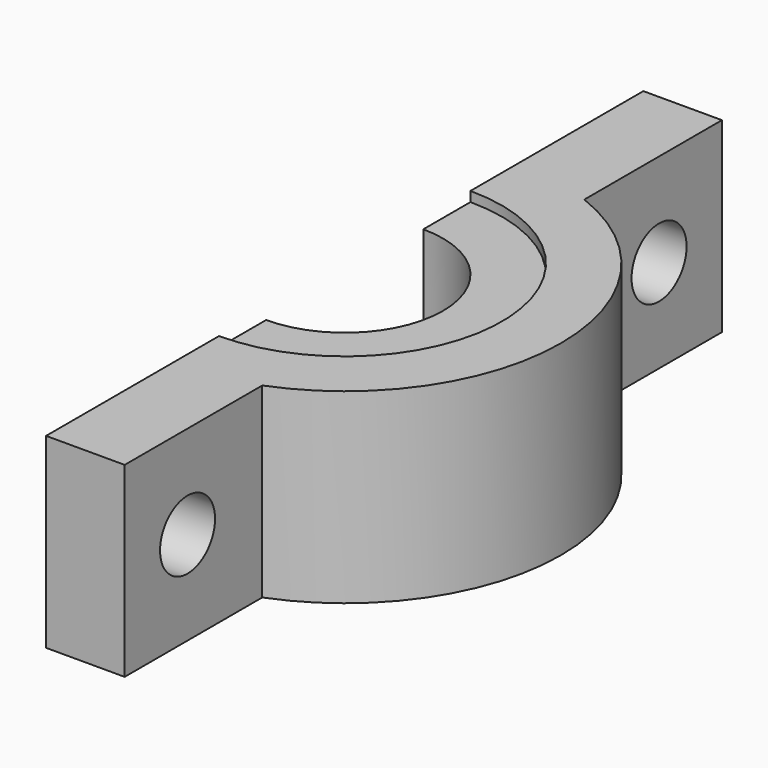
from build123d import *

# Parameters (mm, degrees)
F0_R      = 11
F1_DEPTH  = 9.5
F2_R      = 8
F3_DEPTH  = 0.5
F4_R      = 5
F5_DEPTH  = 25
F6_R      = 5
F6_R_2    = 2.5
F7_DEPTH  = 1
F8_R      = 5
F8_R_2    = 4
F9_DEPTH  = 0.5
F10_W     = 63.0000028759
F10_H     = 42.9000016302
F11_DEPTH = 25
F13_DEPTH = 9.5
F14_R     = 1.75
F15_DEPTH = 25


with BuildPart() as f1:
    # F0 (on Top) → F1 (new body)
    with BuildSketch(Plane.XY):
        Circle(F0_R)
    extrude(amount=F1_DEPTH)

    # F2 (on face) → F3 (cut)
    with BuildSketch(Plane.XY.offset(9.5)):
        Circle(F2_R)
    extrude(amount=-F3_DEPTH, mode=Mode.SUBTRACT)

    # F4 (on face) → F5 (cut)
    with BuildSketch(Plane.XY.offset(9)):
        Circle(F4_R)
    extrude(amount=-F5_DEPTH, mode=Mode.SUBTRACT)

    # F6 (on face) → F7 (join)
    with BuildSketch(Plane(origin=(0, 0, 0), x_dir=(1, 0, 0), z_dir=(0, 0, -1))):
        Circle(F6_R)
        Circle(F6_R_2, mode=Mode.SUBTRACT)
    extrude(amount=-F7_DEPTH)

    # F8 (on face) → F9 (join)
    with BuildSketch(Plane.XY.offset(1)):
        Circle(F8_R)
        Circle(F8_R_2, mode=Mode.SUBTRACT)
    extrude(amount=F9_DEPTH)

    # F10 (on Right) → F11 (cut)
    with BuildSketch(Plane.YZ):
        with Locations((3.45000159, 3.6000004038)):
            Rectangle(F10_W, F10_H)
    extrude(amount=-F11_DEPTH, mode=Mode.SUBTRACT)

    # F12 (on Top) → F13 (join)
    with BuildSketch(Plane.XY):
        with BuildLine():
            ThreePointArc((4, -10.246950766), (2.0351340956, -10.810098483), (0, -11))
            Line((0, -11), (0, -19))
            Line((0, -19), (4, -19))
            Line((4, -19), (4, -10.246950766))
        make_face()
        with BuildLine():
            Line((0, 19), (0, 11))
            ThreePointArc((0, 11), (2.0351340956, 10.810098483), (4, 10.246950766))
            Line((4, 10.246950766), (4, 19))
            Line((4, 19), (0, 19))
        make_face()
    extrude(amount=F13_DEPTH)

    # F14 (on face) → F15 (cut)
    with BuildSketch(Plane.YZ.offset(4)):
        with Locations((-15, 4.75)):
            Circle(F14_R)
        with Locations((15, 4.75)):
            Circle(F14_R)
    extrude(amount=-F15_DEPTH, mode=Mode.SUBTRACT)


solid = f1.part
